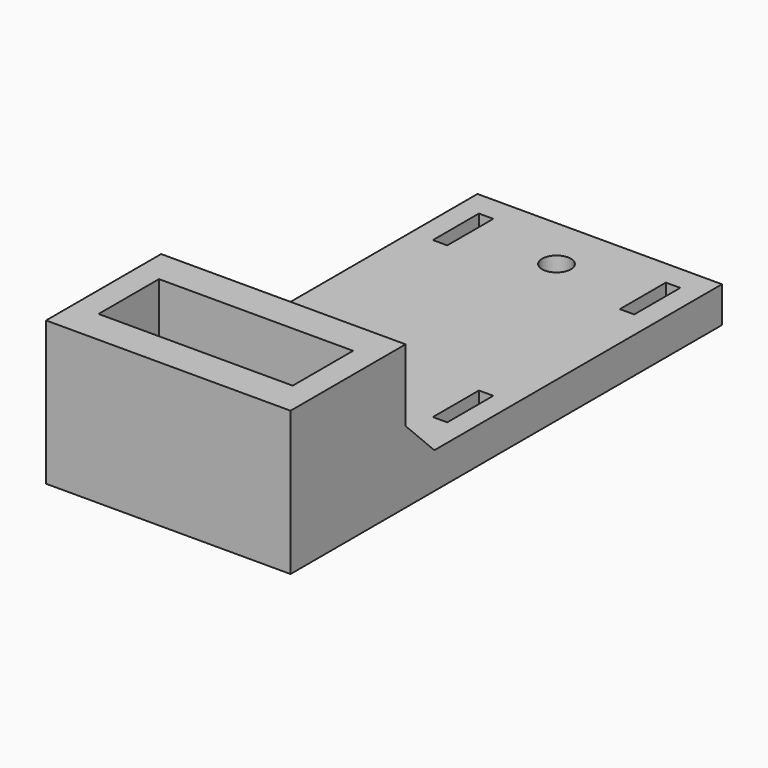
from build123d import *

# Parameters (mm, degrees)
SKETCH_W         = 34
SKETCH_H         = 75
PAD_DEPTH        = 5
SKETCH001_W      = 34
SKETCH001_H      = 20
PAD001_DEPTH     = 15
SKETCH002_W      = 27
SKETCH002_H      = 10.5
POCKET_DEPTH     = 10
HOLE_D           = 4.8
HOLE_DEPTH       = 25
HOLE_CBORE_D     = 8.25
HOLE_CBORE_DEPTH = 4
SKETCH004_R      = 2
SKETCH004_W      = 2
SKETCH004_H      = 8
POCKET001_DEPTH  = 5
CHAMFER_SIZE     = 5


with BuildPart() as part:
    # Sketch → Pad (new body)
    with BuildSketch(Plane.XY):
        Rectangle(SKETCH_W, SKETCH_H)
    extrude(amount=PAD_DEPTH)

    # Sketch001 (on Face6 of Pad) → Pad001 (join)
    with BuildSketch(Plane.XY.offset(5)):
        with Locations((0, -27.5)):
            Rectangle(SKETCH001_W, SKETCH001_H)
    extrude(amount=PAD001_DEPTH)

    # Sketch002 (on Face10 of Pad001) → Pocket (cut)
    with BuildSketch(Plane.XY.offset(20)):
        with Locations((0, -27.5)):
            Rectangle(SKETCH002_W, SKETCH002_H)
    extrude(amount=-POCKET_DEPTH, mode=Mode.SUBTRACT)

    # Hole
    with Locations(Plane(origin=(0, 0, 0), x_dir=(1, 0, 0), z_dir=(0, 0, -1))):
        with Locations((-6.5, 27.5), (6.5, 27.5)):
            CounterBoreHole(HOLE_D / 2, HOLE_CBORE_D / 2, HOLE_CBORE_DEPTH, depth=HOLE_DEPTH)

    # Sketch004 (on Face5 of Hole) → Pocket001 (cut)
    with BuildSketch(Plane.XY.offset(5)):
        with Locations((0, 30)):
            Circle(SKETCH004_R)
        with Locations((0, -2.5)):
            Circle(SKETCH004_R)
        with Locations((-13, 30)):
            Rectangle(SKETCH004_W, SKETCH004_H)
        with Locations((13, 30)):
            Rectangle(SKETCH004_W, SKETCH004_H)
        with Locations((-13, -2.5)):
            Rectangle(SKETCH004_W, SKETCH004_H)
        with Locations((13, -2.5)):
            Rectangle(SKETCH004_W, SKETCH004_H)
    extrude(amount=-POCKET001_DEPTH, mode=Mode.SUBTRACT)

    # Chamfer
    chamfer_edges = [part.edges().sort_by_distance(p)[0] for p in [
        (0, -17.5, 5),
    ]]
    chamfer(chamfer_edges, length=CHAMFER_SIZE)


solid = part.part
